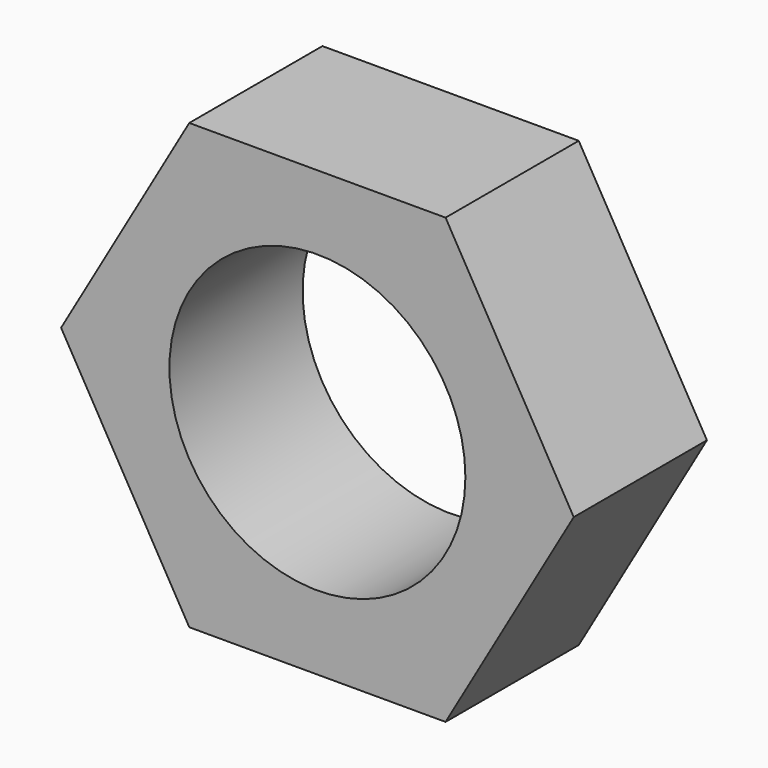
from build123d import *

# Parameters (mm, degrees)
F1_DEPTH = 9
F2_R     = 8
F3_DEPTH = 9.001


with BuildPart() as f1:
    # F0 (on Front) → F1 (new body)
    with BuildSketch(Plane.XZ):
        Polygon((6.928203, 12), (-6.928203, 12), (-13.856406, 0), (-6.928203, -12), (6.928203, -12), (13.856406, 0), align=None)
    extrude(amount=-F1_DEPTH)

    # F2 (on face) → F3 (cut, through all)
    with BuildSketch(Plane.XZ):
        Circle(F2_R)
    extrude(amount=-F3_DEPTH, mode=Mode.SUBTRACT)


solid = f1.part
